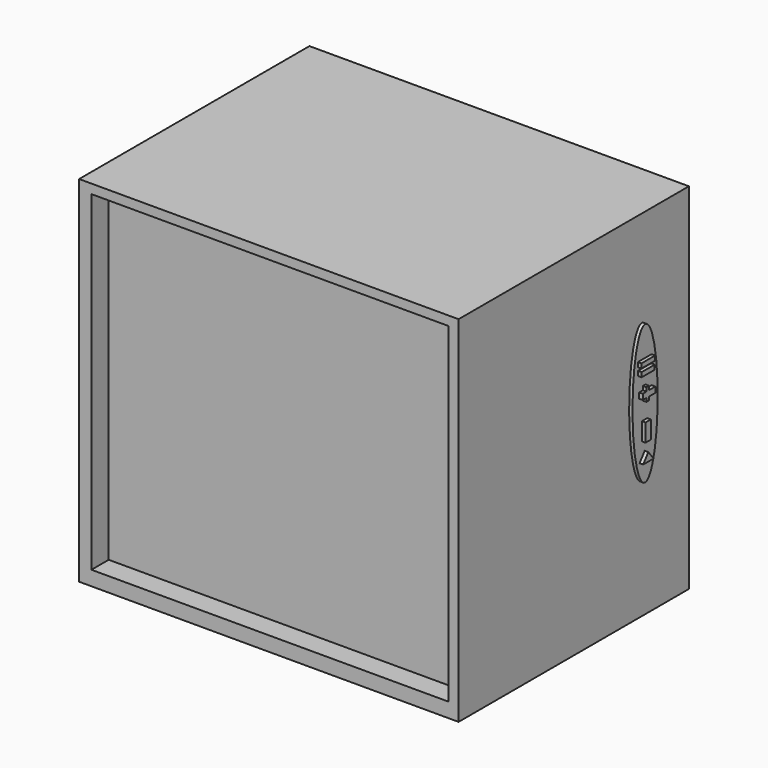
from build123d import *

# Parameters (mm, degrees)
F0_W      = 133.9241117239
F0_H      = 125.1133196056
F1_DEPTH  = 101.6
F2_W      = 126.0571889579
F2_H      = 116.7119294405
F3_DEPTH  = 7.62
F5_DEPTH  = 68.58
F6_W      = 6.050657481
F6_H      = 1.6052769497
F7_DEPTH  = 69.85
F8_W      = 5.8036912233
F8_H      = 1.6052750871
F9_DEPTH  = 69.85
F10_W     = 1.605277881
F10_H     = 1.975722611
F10_W_2   = 1.1730855331
F10_H_2   = 1.2348302407
F10_W_3   = 2.7783634141
F10_H_3   = 1.3583111577
F11_DEPTH = 69.85
F13_DEPTH = 69.85
F14_W     = 2.3461729288
F14_H     = 6.297617685
F15_DEPTH = 69.85


with BuildPart() as f1:
    # F0 (on Front) → F1 (new body)
    with BuildSketch(Plane.XZ):
        with Locations((0.4405379295, -3.9648581296)):
            Rectangle(F0_W, F0_H)
    extrude(amount=F1_DEPTH)

    # F2 (on face) → F3 (cut)
    with BuildSketch(Plane.XZ.offset(101.6)):
        with Locations((0.8558873087, -3.030333668)):
            Rectangle(F2_W, F2_H)
    extrude(amount=-F3_DEPTH, mode=Mode.SUBTRACT)

    # F4 (on Right) → F5 (join)
    with BuildSketch(Plane.YZ):
        with BuildLine():
            add(Edge.make_bspline(
                [(-20.7936801016, -24.5864875615), (-11.1313539485, -24.5864875615), (-15.9625170251, 12.2932437807), (-20.7936801016, 49.1729751229), (-25.6248431782, 12.2932437807), (-30.4560062548, -24.5864875615), (-20.7936801016, -24.5864875615)],
                knots=[0, 0, 0, 2.0943951024, 2.0943951024, 4.1887902048, 4.1887902048, 6.2831853072, 6.2831853072, 6.2831853072], degree=2, weights=[1, 0.5, 1, 0.5, 1, 0.5, 1]))
        make_face()
    extrude(amount=F5_DEPTH)

    # F6 (on Right) → F7 (join)
    with BuildSketch(Plane.YZ):
        with Locations((-21.0075564682, 13.3131914772)):
            Rectangle(F6_W, F6_H)
    extrude(amount=F7_DEPTH)

    # F8 (on Right) → F9 (join)
    with BuildSketch(Plane.YZ):
        with Locations((-21.0355212912, 10.5541222729)):
            Rectangle(F8_W, F8_H)
    extrude(amount=F9_DEPTH)

    # F10 (on Right) → F11 (join)
    with BuildSketch(Plane.YZ):
        with Locations((-22.6139808074, 3.4591723233)):
            Rectangle(F10_W, F10_H)
        with Locations((-21.2247991003, 3.4591723233)):
            Rectangle(F10_W_2, F10_H)
        with Locations((-21.2247991003, 1.8538958975)):
            Rectangle(F10_W_2, F10_H_2)
        with Locations((-19.2490746267, 3.4591723233)):
            Rectangle(F10_W_3, F10_H)
        with Locations((-21.2247991003, 5.1261892077)):
            Rectangle(F10_W_2, F10_H_3)
    extrude(amount=F11_DEPTH)

    # F12 (on Right) → F13 (join)
    with BuildSketch(Plane.YZ):
        Polygon((-20.9511611611, -14.6655198187), (-23.2355929911, -17.6291037351), (-18.666729331, -17.6291037351), align=None)
    extrude(amount=F13_DEPTH)

    # F14 (on Right) → F15 (join)
    with BuildSketch(Plane.YZ):
        with Locations((-21.0262555629, -8.1192564685)):
            Rectangle(F14_W, F14_H)
    extrude(amount=F15_DEPTH)


solid = f1.part
